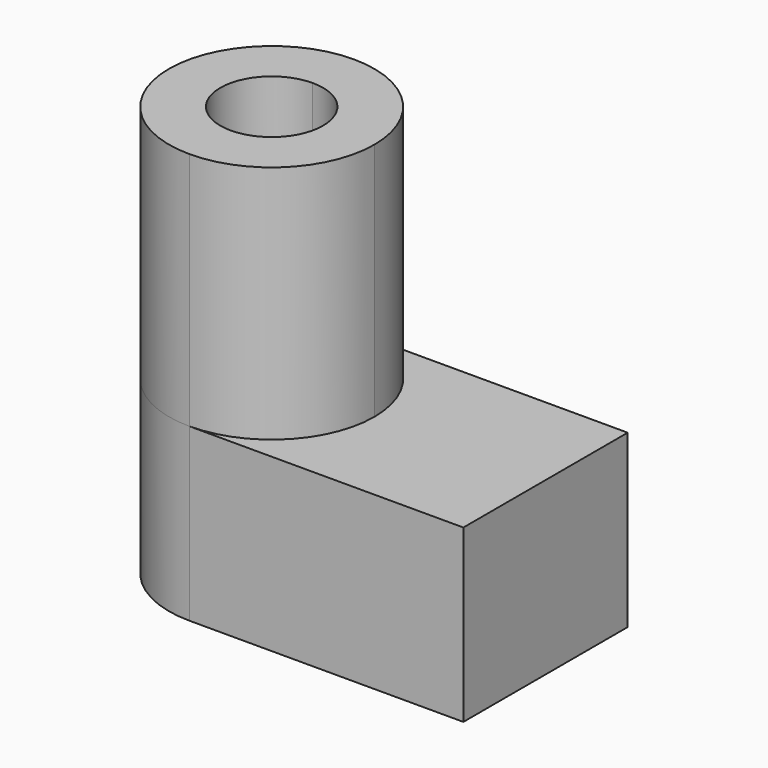
from build123d import *

# Parameters (mm, degrees)
F1_DEPTH = 60
F2_DEPTH = 25


with BuildPart() as f1:
    # F0 (on Top) → F1 (new body)
    with BuildSketch(Plane.XY):
        with BuildLine():
            Line((-40, 7.5), (-40, 0))
            ThreePointArc((-40, 0), (-29.393398, 4.393398), (-25, 15))
            ThreePointArc((-25, 15), (-29.393398, 25.606602), (-40, 30))
            Line((-40, 30), (-40, 22.5))
            ThreePointArc((-40, 22.5), (-34.696699, 20.303301), (-32.5, 15))
            ThreePointArc((-32.5, 15), (-34.696699, 9.696699), (-40, 7.5))
        make_face()
        with BuildLine():
            ThreePointArc((-40, 30), (-55, 15), (-40, 0))
            Line((-40, 0), (-40, 7.5))
            ThreePointArc((-40, 7.5), (-47.5, 15), (-40, 22.5))
            Line((-40, 22.5), (-40, 30))
        make_face()
    extrude(amount=F1_DEPTH)


with BuildPart() as f2:
    # F0 (on Top) → F2 (new body)
    with BuildSketch(Plane.XY):
        with BuildLine():
            Line((-40, 7.5), (-40, 0))
            ThreePointArc((-40, 0), (-29.393398, 4.393398), (-25, 15))
            ThreePointArc((-25, 15), (-29.393398, 25.606602), (-40, 30))
            Line((-40, 30), (-40, 22.5))
            ThreePointArc((-40, 22.5), (-34.696699, 20.303301), (-32.5, 15))
            ThreePointArc((-32.5, 15), (-34.696699, 9.696699), (-40, 7.5))
        make_face()
        with BuildLine():
            ThreePointArc((-40, 30), (-55, 15), (-40, 0))
            Line((-40, 0), (-40, 7.5))
            ThreePointArc((-40, 7.5), (-47.5, 15), (-40, 22.5))
            Line((-40, 22.5), (-40, 30))
        make_face()
        with BuildLine():
            Line((-40, 0), (0, 0))
            Line((0, 0), (0, 30))
            Line((0, 30), (-40, 30))
            ThreePointArc((-40, 30), (-29.393398, 25.606602), (-25, 15))
            ThreePointArc((-25, 15), (-29.393398, 4.393398), (-40, 0))
        make_face()
    extrude(amount=F2_DEPTH)


solid = Compound([f1.part, f2.part])
